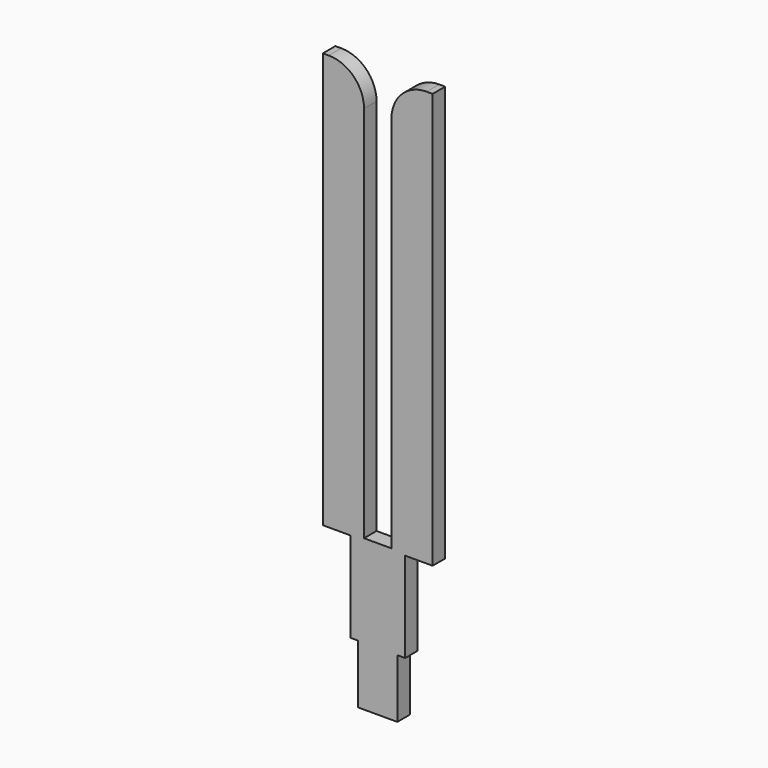
from build123d import *

# Parameters (mm, degrees)
BOX008_W     = 2.8
BOX008_H     = 0.4
BOX008_DEPTH = 14.4
BOX009_W     = 0.7
BOX009_H     = 0.4
BOX009_DEPTH = 10.55
BOX010_W     = 0.7
BOX010_H     = 0.4
BOX010_DEPTH = 3.8
BOX011_W     = 0.7
BOX011_H     = 0.4
BOX011_DEPTH = 3.8
BOX013_W     = 0.2
BOX013_H     = 0.4
BOX013_DEPTH = 1.5
BOX014_W     = 0.2
BOX014_H     = 0.4
BOX014_DEPTH = 1.5
FILLET002_R  = 0.9


with BuildPart() as part:
    # Box008 → Box008 (join)
    with BuildSketch(Plane(origin=(-20.85, -2.74, -1.5), x_dir=(1, 0, 0), z_dir=(0, 0, 1))):
        with Locations((1.4, 0.2)):
            Rectangle(BOX008_W, BOX008_H)
    extrude(amount=BOX008_DEPTH)

    # Box009 → Box009 (cut)
    with BuildSketch(Plane(origin=(-19.8, -2.74, 2.35), x_dir=(1, 0, 0), z_dir=(0, 0, 1))):
        with Locations((0.35, 0.2)):
            Rectangle(BOX009_W, BOX009_H)
    extrude(amount=BOX009_DEPTH, mode=Mode.SUBTRACT)

    # Box010 → Box010 (cut)
    with BuildSketch(Plane(origin=(-20.85, -2.74, -1.5), x_dir=(1, 0, 0), z_dir=(0, 0, 1))):
        with Locations((0.35, 0.2)):
            Rectangle(BOX010_W, BOX010_H)
    extrude(amount=BOX010_DEPTH, mode=Mode.SUBTRACT)

    # Box011 → Box011 (cut)
    with BuildSketch(Plane(origin=(-18.75, -2.74, -1.5), x_dir=(1, 0, 0), z_dir=(0, 0, 1))):
        with Locations((0.35, 0.2)):
            Rectangle(BOX011_W, BOX011_H)
    extrude(amount=BOX011_DEPTH, mode=Mode.SUBTRACT)

    # Box013 → Box013 (cut)
    with BuildSketch(Plane(origin=(-20.15, -2.74, -1.5), x_dir=(1, 0, 0), z_dir=(0, 0, 1))):
        with Locations((0.1, 0.2)):
            Rectangle(BOX013_W, BOX013_H)
    extrude(amount=BOX013_DEPTH, mode=Mode.SUBTRACT)

    # Box014 → Box014 (cut)
    with BuildSketch(Plane(origin=(-18.95, -2.74, -1.5), x_dir=(1, 0, 0), z_dir=(0, 0, 1))):
        with Locations((0.1, 0.2)):
            Rectangle(BOX014_W, BOX014_H)
    extrude(amount=BOX014_DEPTH, mode=Mode.SUBTRACT)

    # Fillet002
    fillet002_edges = [part.edges().sort_by_distance(p)[0] for p in [
        (-19.8, -2.54, 12.9),
        (-19.1, -2.54, 12.9),
    ]]
    fillet(fillet002_edges, radius=FILLET002_R)


solid = part.part
